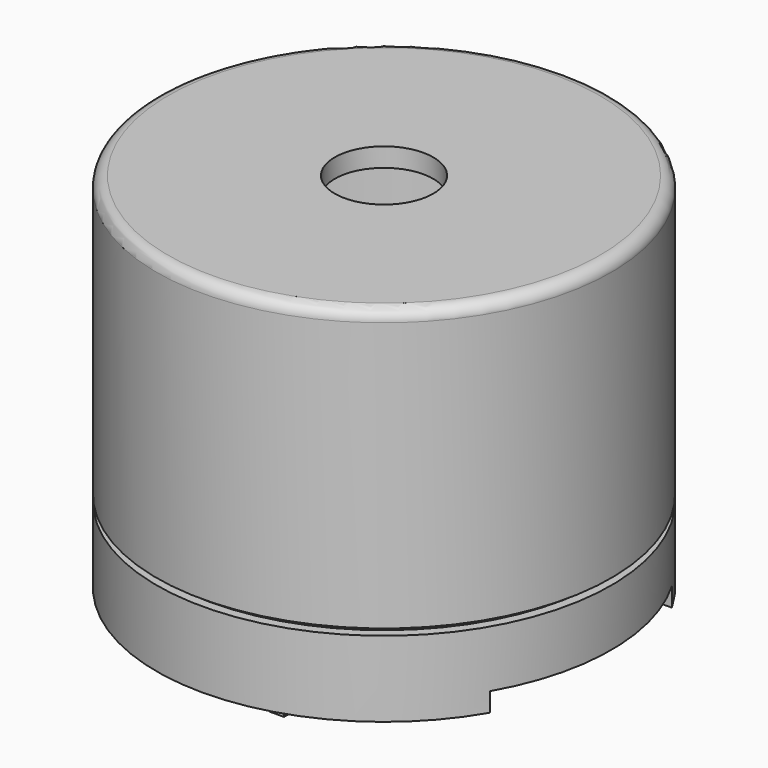
from build123d import *

# Parameters (mm, degrees)
BOX_W                     = 0.6
BOX_H                     = 0.4
BOX_DEPTH                 = 2.5
BOX001_W                  = 0.6
BOX001_H                  = 0.4
BOX001_DEPTH              = 2.5
CYLINDER011_R             = 5.5
CYLINDER011_DEPTH         = 2
BOX002_W                  = 6
BOX002_H                  = 15
BOX002_DEPTH              = 0.5
FILLET006_R               = 0.3
FUSION004_PLACEMENT_ANGLE = 90


with BuildPart() as cubo001:
    # Box → Box (new body)
    with BuildSketch(Plane(origin=(2.95, -0.2, -2), x_dir=(1, 0, 0), z_dir=(0, 0, 1))):
        with Locations((0.3, 0.2)):
            Rectangle(BOX_W, BOX_H)
    extrude(amount=BOX_DEPTH)


with BuildPart() as cubo002:
    # Box001 → Box001 (new body)
    with BuildSketch(Plane(origin=(-3.55, -0.2, -2), x_dir=(1, 0, 0), z_dir=(0, 0, 1))):
        with Locations((0.3, 0.2)):
            Rectangle(BOX001_W, BOX001_H)
    extrude(amount=BOX001_DEPTH)


with BuildPart() as interior:
    # Cylinder011 → Cylinder011 (new body)
    with BuildSketch(Plane.XY):
        Circle(CYLINDER011_R)
    extrude(amount=CYLINDER011_DEPTH)

    # Fusion: union Cubo001, Cubo002
    add(cubo001.part)
    add(cubo002.part)


with BuildPart() as interior_1:
    # Fusion placement: moved
    add(interior.part.moved(Location((0, 0, 0.5))))


with BuildPart() as cubo:
    # Box002 → Box002 (new body)
    with BuildSketch(Plane(origin=(-3, -7, 0), x_dir=(1, 0, 0), z_dir=(0, 0, 1))):
        with Locations((3, 7.5)):
            Rectangle(BOX002_W, BOX002_H)
    extrude(amount=BOX002_DEPTH)


with BuildPart() as obj1:
    # Sketch004 → Revolution001 (revolve)
    with BuildSketch(Plane.XZ):
        Polygon((5.5, 2.5), (5.5, 0), (6, 0), (6, 2), (5.75, 2), (5.75, 2.5), align=None)
    revolve(axis=Axis((0, 0, 0), (0, 0, 1)))

    # Cut013: cut Cubo
    add(cubo.part, mode=Mode.SUBTRACT)


with BuildPart() as buzzersensor:
    # Sketch003 → Revolution (revolve)
    with BuildSketch(Plane.XZ):
        Polygon((1.3, 9.57124), (6, 9.57124), (6, 2.17124), (5.75, 2.17124), (5.75, 2.57124), (5.5, 2.57124), (5.5, 9.07124), (1.3, 9.07124), align=None)
    revolve(axis=Axis((0, 0, 0), (0, 0, 1)))

    # Fillet006
    fillet006_edges = [buzzersensor.edges().sort_by_distance(p)[0] for p in [
        (-6, 0, 9.57124),
    ]]
    fillet(fillet006_edges, radius=FILLET006_R)

    # Fusion004: union Interior, obj1
    add(interior_1.part)
    add(obj1.part)


with BuildPart() as buzzersensor_1:
    # Fusion004 placement: moved
    add(buzzersensor.part.moved(Location((6, 2.7, 1))).rotate(Axis((6, 2.7, 1), (0, 0, 1)), FUSION004_PLACEMENT_ANGLE))


solid = buzzersensor_1.part
